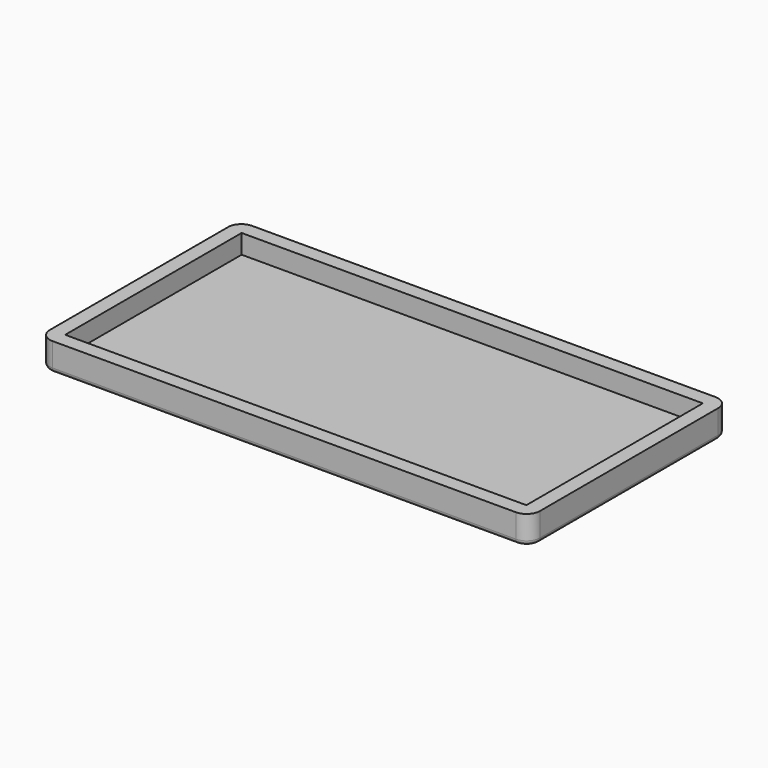
from build123d import *

# Parameters (mm, degrees)
F4_W     = 110
F4_H     = 56
F4_W_2   = 103.5
F4_H_2   = 49.5
F5_DEPTH = 2
F6_DEPTH = 4.3
F7_R     = 3
F8_R     = 1


with BuildPart() as f5:
    # F4 (on Top) → F5 (new body)
    with BuildSketch(Plane.XY):
        Rectangle(F4_W, F4_H)
        Rectangle(F4_W_2, F4_H_2, mode=Mode.SUBTRACT)
        Rectangle(F4_W_2, F4_H_2)
    extrude(amount=-F5_DEPTH)

    # F4 (on Top) → F6 (join)
    with BuildSketch(Plane.XY):
        Rectangle(F4_W, F4_H)
        Rectangle(F4_W_2, F4_H_2, mode=Mode.SUBTRACT)
    extrude(amount=F6_DEPTH)

    # F7
    f7_edges = [f5.edges().sort_by_distance(p)[0] for p in [
        (-55, -28, 1.15),
        (55, -28, 1.15),
        (55, 28, 1.15),
        (-55, 28, 1.15),
    ]]
    fillet(f7_edges, radius=F7_R)

    # F8
    f8_edges = [f5.edges().sort_by_distance(p)[0] for p in [
        (0, 28, -2),
        (54.12132, 27.12132, -2),
        (-54.12132, 27.12132, -2),
        (55, 0, -2),
        (-55, 0, -2),
        (54.12132, -27.12132, -2),
        (-54.12132, -27.12132, -2),
        (0, -28, -2),
    ]]
    fillet(f8_edges, radius=F8_R)


solid = f5.part
